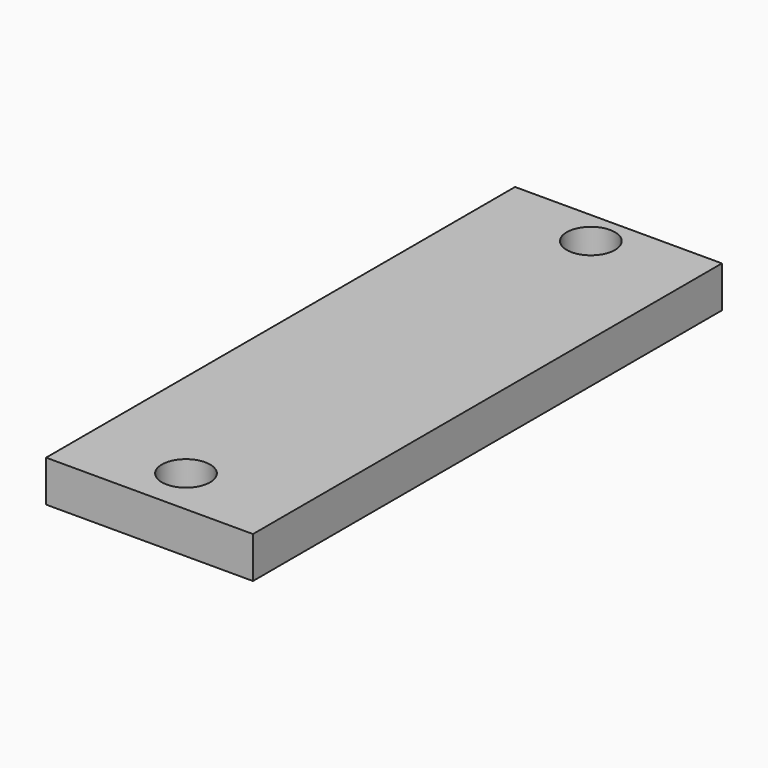
from build123d import *

# Parameters (mm, degrees)
F0_W      = 30
F0_H      = 85
F1_DEPTH  = 6
F2_R      = 3.5
F3_DEPTH  = 4
F4_R      = 2.1
F5_DEPTH  = 25
F6_R      = 3.5
F7_DEPTH  = 4
F8_R      = 2.1
F9_DEPTH  = 25
F11_R     = 1.25
F12_DEPTH = 10
F10_R     = 1.25
F13_DEPTH = 10


with BuildPart() as f1:
    # F0 (on Top) → F1 (new body)
    with BuildSketch(Plane.XY):
        with Locations((15, 42.5)):
            Rectangle(F0_W, F0_H)
    extrude(amount=F1_DEPTH)

    # F2 (on face) → F3 (cut)
    with BuildSketch(Plane.XY.offset(6)):
        with Locations((15, 80)):
            Circle(F2_R)
    extrude(amount=-F3_DEPTH, mode=Mode.SUBTRACT)

    # F4 (on face) → F5 (cut)
    with BuildSketch(Plane.XY.offset(2)):
        with Locations((15, 80)):
            Circle(F4_R)
    extrude(amount=-F5_DEPTH, mode=Mode.SUBTRACT)

    # F6 (on face) → F7 (cut)
    with BuildSketch(Plane.XY.offset(6)):
        with Locations((14.787185, 6.874469)):
            Circle(F6_R)
    extrude(amount=-F7_DEPTH, mode=Mode.SUBTRACT)

    # F8 (on face) → F9 (cut)
    with BuildSketch(Plane.XY.offset(2)):
        with Locations((14.787185, 6.874469)):
            Circle(F8_R)
    extrude(amount=-F9_DEPTH, mode=Mode.SUBTRACT)

    # F11 (on face) → F12 (cut)
    with BuildSketch(Plane(origin=(0, 0, 0), x_dir=(0, -1, 0), z_dir=(-1, 0, 0))):
        with Locations((-73, 3)):
            Circle(F11_R)
    extrude(amount=-F12_DEPTH, mode=Mode.SUBTRACT)

    # F10 (on face) → F13 (cut)
    with BuildSketch(Plane(origin=(0, 0, 0), x_dir=(0, -1, 0), z_dir=(-1, 0, 0))):
        with Locations((-3, 3)):
            Circle(F10_R)
    extrude(amount=-F13_DEPTH, mode=Mode.SUBTRACT)


solid = f1.part
